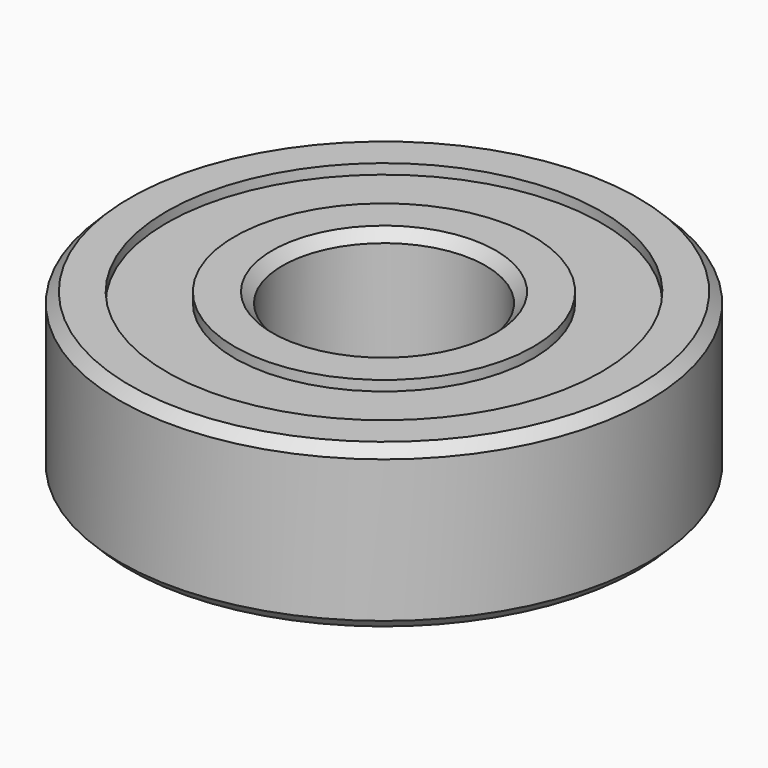
from build123d import *

# Parameters (mm, degrees)
F0_R     = 13
F0_R_2   = 5
F1_DEPTH = 4
F2_R     = 10.7
F2_R_2   = 7.35
F3_DEPTH = 0.5
F4_R     = 10.7
F4_R_2   = 7.35
F5_DEPTH = 0.5
F6_SIZE  = 0.5


with BuildPart() as f1:
    # F0 (on Top) → F1 (new body, symmetric)
    with BuildSketch(Plane.XY):
        Circle(F0_R)
        Circle(F0_R_2, mode=Mode.SUBTRACT)
    extrude(amount=F1_DEPTH, both=True)

    # F2 (on face) → F3 (cut)
    with BuildSketch(Plane(origin=(0, 0, -4), x_dir=(1, 0, 0), z_dir=(0, 0, -1))):
        Circle(F2_R)
        Circle(F2_R_2, mode=Mode.SUBTRACT)
    extrude(amount=-F3_DEPTH, mode=Mode.SUBTRACT)

    # F4 (on face) → F5 (cut)
    with BuildSketch(Plane.XY.offset(4)):
        Circle(F4_R)
        Circle(F4_R_2, mode=Mode.SUBTRACT)
    extrude(amount=-F5_DEPTH, mode=Mode.SUBTRACT)

    # F6
    f6_edges = [f1.edges().sort_by_distance(p)[0] for p in [
        (-13, 0, -4),
        (-13, 0, 4),
        (-5, 0, -4),
        (-5, 0, 4),
    ]]
    chamfer(f6_edges, length=F6_SIZE)


solid = f1.part
